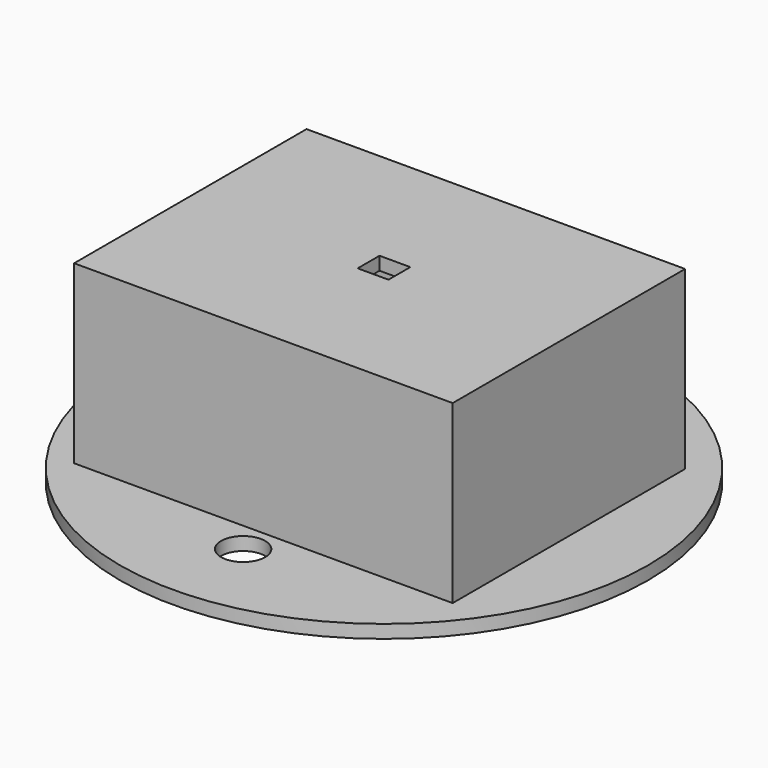
from build123d import *

# Parameters (mm, degrees)
F0_R     = 60
F0_R_2   = 5
F0_W     = 86
F0_H     = 66
F1_DEPTH = 3
F2_DEPTH = 40
F3_W     = 86
F3_H     = 66
F4_DEPTH = 3
F5_W     = 10
F5_H     = 12
F5_W_2   = 13
F5_H_2   = 13
F6_DEPTH = 25
F8_DEPTH = 25


with BuildPart() as f1:
    # F0 (on Top) → F1 (new body)
    with BuildSketch(Plane.XY):
        Circle(F0_R)
        with Locations((0, -40)):
            Circle(F0_R_2, mode=Mode.SUBTRACT)
        with Locations((-1, 0)):
            Rectangle(F0_W, F0_H, mode=Mode.SUBTRACT)
        with Locations((0, 40)):
            Circle(F0_R_2, mode=Mode.SUBTRACT)
    extrude(amount=F1_DEPTH)

    # F0 (on Top) → F2 (join)
    with BuildSketch(Plane.XY):
        with Locations((-1, 0)):
            Rectangle(F0_W, F0_H)
        Polygon((39, 30), (39, 2), (39, -30), (-41, -30), (-41, 0), (-41, 30), align=None, mode=Mode.SUBTRACT)
    extrude(amount=F2_DEPTH)

    # F3 (on face) → F4 (join)
    with BuildSketch(Plane.XY.offset(40)):
        with Locations((-1, 0)):
            Rectangle(F3_W, F3_H)
    extrude(amount=F4_DEPTH)

    # F5 (on face) → F6 (cut)
    with BuildSketch(Plane(origin=(-44, 0, 0), x_dir=(0, -1, 0), z_dir=(-1, 0, 0))):
        with Locations((14.5, 19)):
            Rectangle(F5_W, F5_H)
        with Locations((-15.9, 19.5)):
            Rectangle(F5_W_2, F5_H_2)
    extrude(amount=-F6_DEPTH, mode=Mode.SUBTRACT)

    # F7 (on face) → F8 (cut)
    with BuildSketch(Plane.XY.offset(43)):
        Polygon((3.5, -3.1), (3.5, 0), (3.5, 3.1), (-3.5, 3.1), (-3.5, 0), (-3.5, -3.1), align=None)
    extrude(amount=-F8_DEPTH, mode=Mode.SUBTRACT)


solid = f1.part
